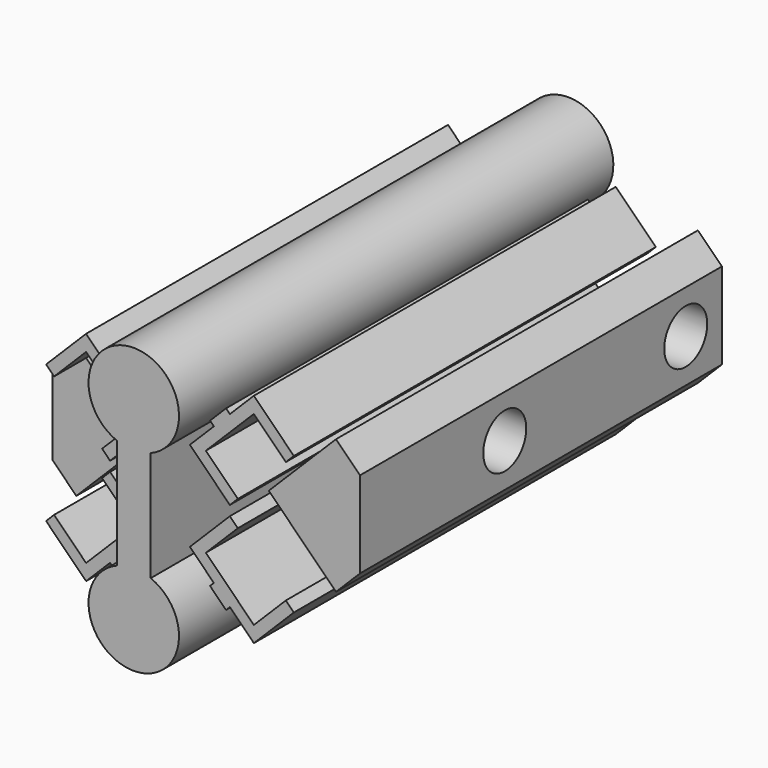
from build123d import *

# Parameters (mm, degrees)
F1_DEPTH  = 63.5
F5_DEPTH  = 76.2
F8_DEPTH  = 50.8
F13_DEPTH = 25.4
F14_R     = 7.5438
F15_DEPTH = 12.7


with BuildPart() as f1:
    # F0 (on Front) → F1 (new body, symmetric)
    with BuildSketch(Plane.XZ):
        Polygon((23.5485122421, 26.0801280605), (32.5287683632, 17.0998719395), (34.7738323935, 19.3449359697), (23.5485122421, 30.5702561211), (16.8133201513, 23.8350640303), (15.7356894168, 24.9126947648), (11.2455613563, 20.4225667043), (12.3231920908, 19.3449359697), (5.588, 12.6097438789), (16.8133201513, 1.3844237276), (19.0583841816, 3.6294877579), (10.0781280605, 12.6097438789), align=None)
    extrude(amount=F1_DEPTH, both=True)


with BuildPart() as f2_1:
    # F2: instance of F1
    add(f1.part.mirror(Plane.YZ))


with BuildPart() as f3_1:
    # F3: instance of F1
    add(f1.part.mirror(Plane.XY))


with BuildPart() as f3_2:
    # F3: instance of F2_1
    add(f2_1.part.mirror(Plane.XY))


with BuildPart() as f5:
    # F4 (on Front) → F5 (new body, symmetric)
    with BuildSketch(Plane.XZ):
        with BuildLine():
            Line((4.7625, -15.4541050531), (4.7625, 15.4541050531))
            ThreePointArc((4.7625, 15.4541050531), (0, 39.9273201513), (-4.7625, 15.4541050531))
            Line((-4.7625, 15.4541050531), (-4.7625, -15.4541050531))
            ThreePointArc((-4.7625, -15.4541050531), (0, -39.9273201513), (4.7625, -15.4541050531))
        make_face()
    extrude(amount=F5_DEPTH, both=True)


with BuildPart() as f8:
    # F7 (on Front) → F8 (new body, symmetric)
    with BuildSketch(Plane.XZ):
        Polygon((43.18, -12.1212336013), (43.18, 12.1212336013), (36.442695747, 18.8585378542), (17.5841578928, 0), (36.442695747, -18.8585378542), align=None)
    extrude(amount=F8_DEPTH, both=True)

    # F9 (on Front) → F10 (revolve, cut)
    with BuildSketch(Plane.XZ):
        Polygon((24.6842747073, 0), (43.18, 0), (43.18, 7.5438), (31.242, 7.5438), align=None)
    revolve(axis=Axis((33.9321373536, 0, 0), (1, 0, 0)), mode=Mode.SUBTRACT)


with BuildPart() as f11_1:
    # F11: instance of F8
    add(f8.part.mirror(Plane.YZ))


with BuildPart() as f8_1:
    add(f8.part)

    # F12 (on face) → F13 (join)
    with BuildSketch(Plane(origin=(0, 50.8, 0), x_dir=(-1, 0, 0), z_dir=(0, 1, 0))):
        Polygon((-36.442695747, 18.8585378542), (-43.18, 12.1212336013), (-43.18, -12.1212336013), (-36.442695747, -18.8585378542), (-17.5841578928, 0), align=None)
    extrude(amount=F13_DEPTH)

    # F14 (on face) → F15 (cut)
    with BuildSketch(Plane.YZ.offset(43.18)):
        with Locations((63.5, 0)):
            Circle(F14_R)
    extrude(amount=-F15_DEPTH, mode=Mode.SUBTRACT)


solid = Compound([f1.part, f2_1.part, f3_1.part, f3_2.part, f5.part, f11_1.part, f8_1.part])
